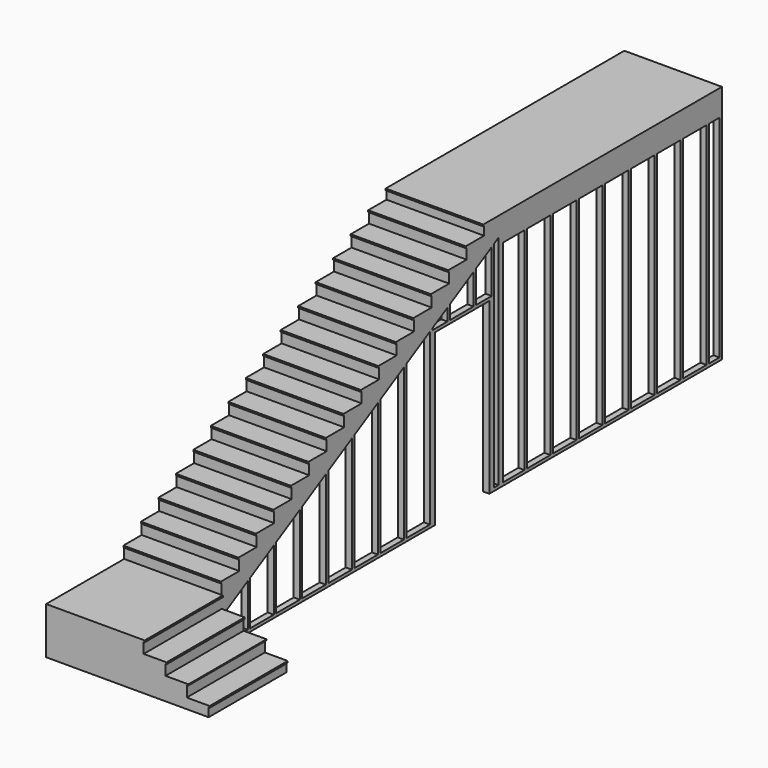
from build123d import *

# Parameters (mm, degrees)
F1_DEPTH  = 2438.4
F2_W      = 1219.2
F2_H      = 7810.50601472
F3_DEPTH  = 6096
F4_DEPTH  = 1219.2
F6_DEPTH  = 12192
F7_W      = 850.9
F7_H      = 2082.8
F7_W_2    = 330.0984
F7_H_2    = 2637.282
F7_W_3    = 368.1984
F7_W_4    = 164.4047516028
F7_H_3    = 38.1
F8_DEPTH  = 1524
F10_DEPTH = 1143


with BuildPart() as f1:
    # F0 (on Right) → F1 (new body)
    with BuildSketch(Plane.YZ):
        Polygon((4540.25300736, -1499.616), (4540.25300736, 1499.616), (813.40659264, 1499.616), (813.40659264, 1478.9658), (826.10659264, 1478.9658), (826.10659264, 1371.6), (540.35659264, 1371.6), (540.35659264, 1350.8736), (553.15819264, 1350.8736), (553.15819264, 1219.2), (267.25579264, 1219.2), (267.25579264, 1198.4736), (280.05739264, 1198.4736), (280.05739264, 1066.8), (-5.84500736, 1066.8), (-5.84500736, 1046.0736), (6.95659264, 1046.0736), (6.95659264, 914.4), (-278.94580736, 914.4), (-278.94580736, 893.6736), (-266.14420736, 893.6736), (-266.14420736, 762), (-552.04660736, 762), (-552.04660736, 741.2736), (-539.24500736, 741.2736), (-539.24500736, 609.6), (-825.14740736, 609.6), (-825.14740736, 588.8736), (-812.34580736, 588.8736), (-812.34580736, 457.2), (-1098.24820736, 457.2), (-1098.24820736, 436.4736), (-1085.44660736, 436.4736), (-1085.44660736, 304.8), (-1371.34900736, 304.8), (-1371.34900736, 284.0736), (-1358.54740736, 284.0736), (-1358.54740736, 152.4), (-1644.44980736, 152.4), (-1644.44980736, 131.6736), (-1631.64820736, 131.6736), (-1631.64820736, 0), (-1917.55060736, 0), (-1917.55060736, -20.7264), (-1904.74900736, -20.7264), (-1904.74900736, -152.4), (-2190.65140736, -152.4), (-2190.65140736, -173.1264), (-2177.84980736, -173.1264), (-2177.84980736, -304.8), (-2463.75220736, -304.8), (-2463.75220736, -325.5264), (-2450.95060736, -325.5264), (-2450.95060736, -457.2), (-2736.85300736, -457.2), (-2736.85300736, -477.9264), (-2724.05140736, -477.9264), (-2724.05140736, -609.6), (-3009.95380736, -609.6), (-3009.95380736, -630.3264), (-2997.15220736, -630.3264), (-2997.15220736, -762), (-3283.05460736, -762), (-3283.05460736, -782.7264), (-3270.25300736, -782.7264), (-3270.25300736, -914.4), (-4489.45300736, -914.4), (-4489.45300736, -1499.616), align=None)
    extrude(amount=F1_DEPTH)

    # F2 (on face) → F3 (cut)
    with BuildSketch(Plane(origin=(0, 0, -1499.616), x_dir=(1, 0, 0), z_dir=(0, 0, -1))):
        with Locations((1828.8, -635)):
            Rectangle(F2_W, F2_H)
    extrude(amount=-F3_DEPTH, mode=Mode.SUBTRACT)

    # F4 (cut): a face of the model
    f4_faces = [f1.faces().sort_by_distance(p)[0] for p in [
        (2438.4, -3276.65380736, -772.3632),
    ]]
    extrude(f4_faces, amount=-F4_DEPTH, mode=Mode.SUBTRACT)

    # F5 (on face) → F6 (cut)
    with BuildSketch(Plane.XZ.offset(4489.45300736)):
        Polygon((2438.4, -914.4), (1232.0016, -914.4), (1232.0016, -935.1264), (1219.2, -935.1264), (1219.2, -1066.8), (1505.1024, -1066.8), (1505.1024, -1087.5264), (1492.3008, -1087.5264), (1492.3008, -1219.2), (1778.2032, -1219.2), (1778.2032, -1232.0016), (1757.4768, -1232.0016), (1757.4768, -1371.6), (2043.3792, -1371.6), (2043.3792, -1392.3264), (2030.5776, -1392.3264), (2030.5776, -1499.616), (2438.4, -1499.616), align=None)
    extrude(amount=-F6_DEPTH, mode=Mode.SUBTRACT)

    # F7 (on face) → F8 (cut)
    with BuildSketch(Plane.YZ.offset(1219.2)):
        Polygon((-3232.15300736, -1461.516), (-2863.95460736, -1461.516), (-2863.95460736, -926.8592061324), (-3232.15300736, -1132.3270632753), align=None)
        Polygon((-2825.85460736, -1461.516), (-2457.65620736, -1461.516), (-2457.65620736, -700.1301882753), (-2825.85460736, -905.5980454181), align=None)
        Polygon((-2419.55620736, -1461.516), (-2051.35780736, -1461.516), (-2051.35780736, -473.4011704181), (-2419.55620736, -678.869027561), align=None)
        Polygon((-2013.25780736, -1461.516), (-1645.05940736, -1461.516), (-1645.05940736, -246.672152561), (-2013.25780736, -452.1400097039), align=None)
        Polygon((-1606.95940736, -1461.516), (-1238.76100736, -1461.516), (-1238.76100736, -19.9431347039), (-1606.95940736, -225.4109918467), align=None)
        Polygon((-1200.66100736, -1461.516), (-832.46260736, -1461.516), (-832.46260736, 206.7858831533), (-1200.66100736, 1.3180260104), align=None)
        Polygon((-794.36260736, -1461.516), (-426.16420736, -1461.516), (-426.16420736, 433.5149010104), (-794.36260736, 228.0470438676), align=None)
        Polygon((-388.06420736, -1461.516), (-19.86580736, -1461.516), (-19.86580736, 660.2439188676), (-388.06420736, 454.7760617247), align=None)
        with Locations((481.78419264, -420.116)):
            Rectangle(F7_W, F7_H)
        Polygon((18.23419264, 681.5050795818), (18.23419264, 660.2439188676), (253.13339264, 660.2439188676), (253.13339264, 812.587222439), align=None)
        Polygon((659.43179264, 660.2439188676), (659.43179264, 1039.3162402961), (291.23339264, 833.8483831533), (291.23339264, 660.2439188676), align=None)
        Polygon((945.33419264, 660.2439188676), (945.33419264, 1198.8599902961), (697.53179264, 1060.5774010104), (697.53179264, 660.2439188676), align=None)
        Polygon((1049.2610557572, -1461.516), (1049.2610557572, 1256.8548915892), (983.43419264, 1220.1211510104), (983.43419264, -1461.516), align=None)
        with Locations((1290.5102557572, -142.875)):
            Rectangle(F7_W_2, F7_H_2)
        with Locations((1677.7586557572, -142.875)):
            Rectangle(F7_W_3, F7_H_2)
        with Locations((2084.0570557572, -142.875)):
            Rectangle(F7_W_3, F7_H_2)
        with Locations((2490.3554557572, -142.875)):
            Rectangle(F7_W_3, F7_H_2)
        with Locations((2896.6538557572, -142.875)):
            Rectangle(F7_W_3, F7_H_2)
        with Locations((3302.9522557572, -142.875)):
            Rectangle(F7_W_3, F7_H_2)
        with Locations((3709.2506557572, -142.875)):
            Rectangle(F7_W_3, F7_H_2)
        with Locations((4115.5490557572, -142.875)):
            Rectangle(F7_W_3, F7_H_2)
        with Locations((4419.9506315586, -142.875)):
            Rectangle(F7_W_4, F7_H_2)
        with Locations((481.78419264, -1480.566)):
            Rectangle(F7_W, F7_H_3)
    extrude(amount=-F8_DEPTH, mode=Mode.SUBTRACT)

    # F9 (on face) → F10 (cut)
    with BuildSketch(Plane(origin=(0, 0, 0), x_dir=(0, -1, 0), z_dir=(-1, 0, 0))):
        Polygon((-4502.15300736, 1175.766), (-4540.25300736, 1175.766), (-4540.25300736, -1499.616), (-907.23419264, -1499.616), (-907.23419264, 621.284), (-56.33419264, 621.284), (-56.33419264, -1499.616), (3232.15300736, -1499.616), (3232.15300736, -1461.516), (2863.95460736, -1461.516), (2863.95460736, -926.8592061324), (2825.85460736, -905.5980454181), (2825.85460736, -1461.516), (2457.65620736, -1461.516), (2457.65620736, -700.1301882753), (2419.55620736, -678.869027561), (2419.55620736, -1461.516), (2051.35780736, -1461.516), (2051.35780736, -473.4011704181), (2013.25780736, -452.1400097039), (2013.25780736, -1461.516), (1645.05940736, -1461.516), (1645.05940736, -246.672152561), (1606.95940736, -225.4109918467), (1606.95940736, -1461.516), (1238.76100736, -1461.516), (1238.76100736, -19.9431347039), (1200.66100736, 1.3180260104), (1200.66100736, -1461.516), (832.46260736, -1461.516), (832.46260736, 206.7858831533), (794.36260736, 228.0470438676), (794.36260736, -1461.516), (426.16420736, -1461.516), (426.16420736, 433.5149010104), (388.06420736, 454.7760617247), (388.06420736, -1461.516), (19.86580736, -1461.516), (19.86580736, 660.2439188676), (-18.23419264, 681.5050795818), (-18.23419264, 660.2439188676), (-253.13339264, 660.2439188676), (-253.13339264, 812.587222439), (-291.23339264, 833.8483831533), (-291.23339264, 660.2439188676), (-659.43179264, 660.2439188676), (-659.43179264, 1039.3162402961), (-697.53179264, 1060.5774010104), (-697.53179264, 660.2439188676), (-945.33419264, 660.2439188676), (-945.33419264, 1198.8599902961), (-983.43419264, 1220.1211510104), (-983.43419264, -1461.516), (-1049.2610557572, -1461.516), (-1049.2610557572, 1175.766), (-1125.4610557572, 1175.766), (-1125.4610557572, -1461.516), (-1455.5594557572, -1461.516), (-1455.5594557572, 1175.766), (-1493.6594557572, 1175.766), (-1493.6594557572, -1461.516), (-1861.8578557572, -1461.516), (-1861.8578557572, 1175.766), (-1899.9578557572, 1175.766), (-1899.9578557572, -1461.516), (-2268.1562557572, -1461.516), (-2268.1562557572, 1175.766), (-2306.2562557572, 1175.766), (-2306.2562557572, -1461.516), (-2674.4546557572, -1461.516), (-2674.4546557572, 1175.766), (-2712.5546557572, 1175.766), (-2712.5546557572, -1461.516), (-3080.7530557572, -1461.516), (-3080.7530557572, 1175.766), (-3118.8530557572, 1175.766), (-3118.8530557572, -1461.516), (-3487.0514557572, -1461.516), (-3487.0514557572, 1175.766), (-3525.1514557572, 1175.766), (-3525.1514557572, -1461.516), (-3893.3498557572, -1461.516), (-3893.3498557572, 1175.766), (-3931.4498557572, 1175.766), (-3931.4498557572, -1461.516), (-4299.6482557572, -1461.516), (-4299.6482557572, 1175.766), (-4337.7482557572, 1175.766), (-4337.7482557572, -1461.516), (-4502.15300736, -1461.516), align=None)
    extrude(amount=-F10_DEPTH, mode=Mode.SUBTRACT)


solid = f1.part
